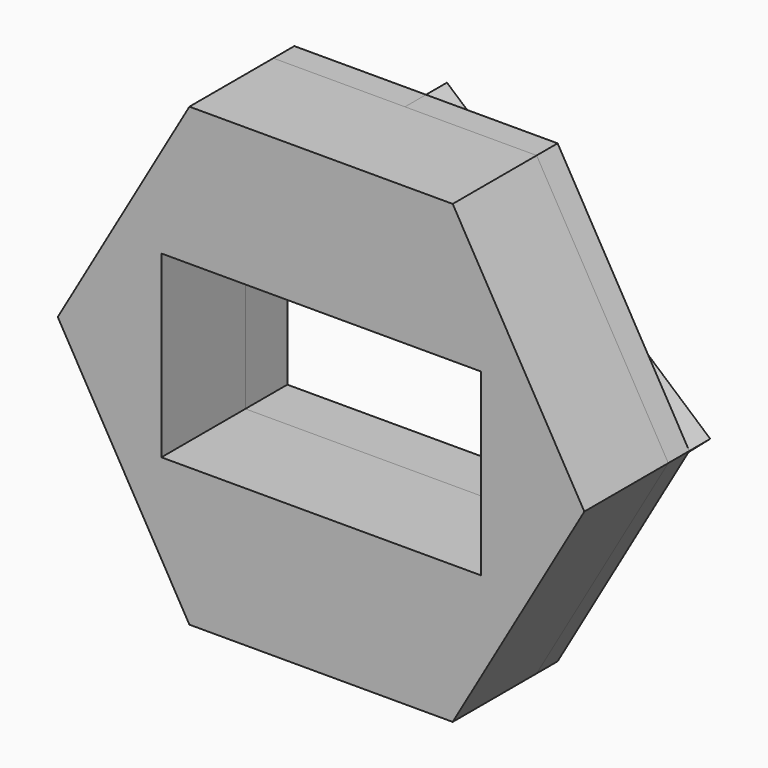
from build123d import *

# Parameters (mm, degrees)
F1_DEPTH = 20
F2_DEPTH = 10
F3_DEPTH = 5


with BuildPart() as f1:
    # F0 (on Front) → F1 (new body)
    with BuildSketch(Plane.XZ):
        Polygon((30.4469198259, 17.0925220957), (0, 43.4603281319), (-50.1836642921, 0), (-30.4234071336, -17.1128846846), (-30.4234071336, 17.0925220957), align=None)
        Polygon((0, 43.4603281319), (-25.091832146, 43.4603281319), (-50.1836642921, 0), align=None)
        Polygon((25.091832146, 43.4603281319), (0, 43.4603281319), (30.4469198259, 17.0925220957), (50.1836642921, 0), align=None)
        Polygon((50.1836642921, 0), (30.4469198259, 17.0925220957), (30.4469198259, -17.0925220957), align=None)
        Polygon((25.091832146, -43.4603281319), (50.1836642921, 0), (30.4469198259, -17.0925220957), (30.4469198259, -17.1128846846), (30.4234071336, -17.1128846846), (0, -43.4603281319), align=None)
        Polygon((-30.4234071336, -17.1128846846), (-50.1836642921, 0), (-25.091832146, -43.4603281319), (0, -43.4603281319), align=None)
        Polygon((30.4234071336, -17.1128846846), (-30.4234071336, -17.1128846846), (0, -43.4603281319), align=None)
    extrude(amount=F1_DEPTH)


with BuildPart() as f2:
    # F0 (on Front) → F2 (new body)
    with BuildSketch(Plane.XZ):
        Polygon((30.4234071336, -17.1128846846), (-30.4234071336, -17.1128846846), (0, -43.4603281319), align=None)
    extrude(amount=-F2_DEPTH)


with BuildPart() as f2b:
    # F0 (on Front) → F2, piece 2 (new body)
    with BuildSketch(Plane.XZ):
        Polygon((50.1836642921, 0), (30.4469198259, 17.0925220957), (30.4469198259, -17.0925220957), align=None)
    extrude(amount=-F2_DEPTH)


with BuildPart() as f2c:
    # F0 (on Front) → F2, piece 3 (new body)
    with BuildSketch(Plane.XZ):
        Polygon((30.4469198259, 17.0925220957), (0, 43.4603281319), (-50.1836642921, 0), (-30.4234071336, -17.1128846846), (-30.4234071336, 17.0925220957), align=None)
    extrude(amount=-F2_DEPTH)


with BuildPart() as f3:
    # F0 (on Front) → F3 (new body)
    with BuildSketch(Plane.XZ):
        Polygon((0, 43.4603281319), (-25.091832146, 43.4603281319), (-50.1836642921, 0), align=None)
    extrude(amount=-F3_DEPTH)


with BuildPart() as f3b:
    # F0 (on Front) → F3, piece 2 (new body)
    with BuildSketch(Plane.XZ):
        Polygon((25.091832146, 43.4603281319), (0, 43.4603281319), (30.4469198259, 17.0925220957), (50.1836642921, 0), align=None)
    extrude(amount=-F3_DEPTH)


with BuildPart() as f3c:
    # F0 (on Front) → F3, piece 3 (new body)
    with BuildSketch(Plane.XZ):
        Polygon((-30.4234071336, -17.1128846846), (-50.1836642921, 0), (-25.091832146, -43.4603281319), (0, -43.4603281319), align=None)
    extrude(amount=-F3_DEPTH)


with BuildPart() as f3d:
    # F0 (on Front) → F3, piece 4 (new body)
    with BuildSketch(Plane.XZ):
        Polygon((25.091832146, -43.4603281319), (50.1836642921, 0), (30.4469198259, -17.0925220957), (30.4469198259, -17.1128846846), (30.4234071336, -17.1128846846), (0, -43.4603281319), align=None)
    extrude(amount=-F3_DEPTH)


solid = Compound([f1.part, f2.part, f2b.part, f2c.part, f3.part, f3b.part, f3c.part, f3d.part])
